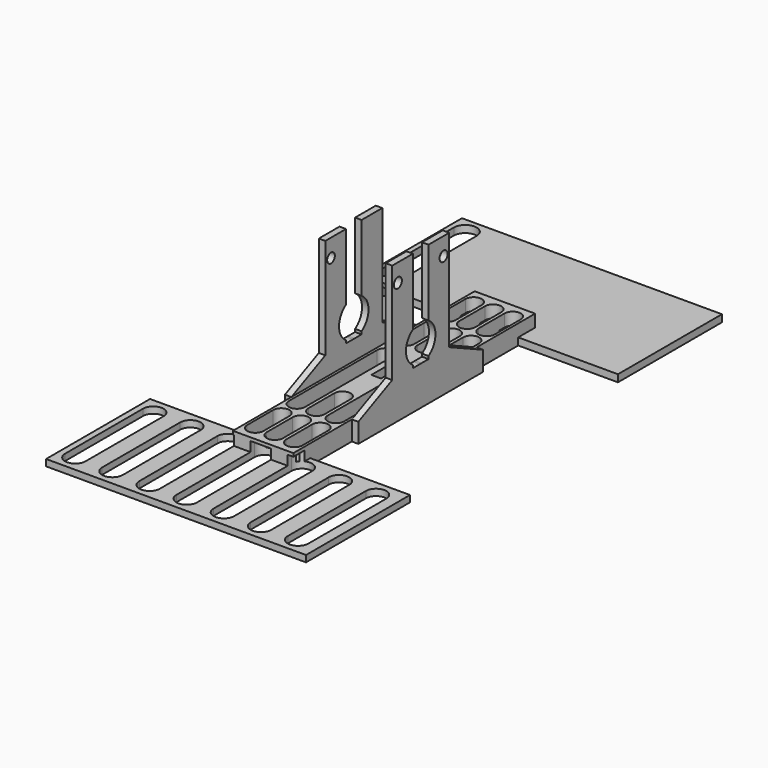
from build123d import *

# Parameters (mm, degrees)
SKETCH_W             = 18.6
SKETCH_H             = 93
PAD_DEPTH            = 6
SKETCH001_W          = 3
SKETCH001_H          = 6
POCKET_DEPTH         = 6
POCKET001_DEPTH      = 8
PAD001_DEPTH         = 2
SKETCH004_R          = 1.551846
SKETCH004_R_2        = 1.552141
POCKET002_DEPTH      = 20.601
SKETCH005_W          = 80
SKETCH005_H          = 40
PAD002_DEPTH         = 2
POCKET003_DEPTH      = 5
LINEARPATTERN_COUNT  = 8
LINEARPATTERN_PITCH  = 11.428571
SKETCH007_W          = 80
SKETCH007_H          = 40
PAD003_DEPTH         = 2.2
POCKET004_DEPTH      = 5
SKETCH009_R          = 5.6651
SKETCH009_R_2        = 1.478967
POCKET005_DEPTH      = 15
POCKET005_DEPTH_BACK = -15


with BuildPart() as part:
    # Sketch → Pad (new body)
    with BuildSketch(Plane.XY):
        Rectangle(SKETCH_W, SKETCH_H)
    extrude(amount=-PAD_DEPTH)

    # Sketch001 (on Face5 of Pad) → Pocket (cut)
    with BuildSketch(Plane.XY):
        Rectangle(SKETCH001_W, SKETCH001_H)
    extrude(amount=-POCKET_DEPTH, mode=Mode.SUBTRACT)

    # Sketch002 (on Face4 of Pocket) → Pocket001 (cut)
    with BuildSketch(Plane.XY):
        with BuildLine():
            ThreePointArc((-2.5, -42), (0, -44.5), (2.5, -42))
            Line((2.5, -42), (2.5, -32))
            ThreePointArc((2.5, -32), (0, -29.5), (-2.5, -32))
            Line((-2.5, -42), (-2.5, -32))
        make_face()
        with BuildLine():
            ThreePointArc((-8.5, -42), (-6, -44.5), (-3.5, -42))
            Line((-3.5, -42), (-3.5, -32))
            ThreePointArc((-3.5, -32), (-6, -29.5), (-8.5, -32))
            Line((-8.5, -42), (-8.5, -32))
        make_face()
        with BuildLine():
            ThreePointArc((3.5, -42), (6, -44.5), (8.5, -42))
            Line((8.5, -42), (8.5, -32))
            ThreePointArc((8.5, -32), (6, -29.5), (3.5, -32))
            Line((3.5, -42), (3.5, -32))
        make_face()
        with BuildLine():
            ThreePointArc((-2.487782, -26), (0.012218, -28.5), (2.512218, -26))
            Line((2.512218, -26), (2.512218, -16))
            ThreePointArc((2.512218, -16), (0.012218, -13.5), (-2.487782, -16))
            Line((-2.487782, -26), (-2.487782, -16))
        make_face()
        with BuildLine():
            ThreePointArc((-8.496945, -26), (-6, -28.496945), (-3.503055, -26))
            Line((-3.503055, -26), (-3.503055, 8))
            ThreePointArc((-3.503055, 8), (-6, 10.496945), (-8.496945, 8))
            Line((-8.496945, -26), (-8.496945, 8))
        make_face()
        with BuildLine():
            ThreePointArc((3.503055, -26), (6, -28.496945), (8.496945, -26))
            Line((8.496945, -26), (8.496945, 8))
            ThreePointArc((8.496945, 8), (6, 10.496945), (3.503055, 8))
            Line((3.503055, -26), (3.503055, 8))
        make_face()
        with BuildLine():
            ThreePointArc((2.5, 42), (0, 44.5), (-2.5, 42))
            Line((-2.5, 42), (-2.5, 32))
            ThreePointArc((-2.5, 32), (0, 29.5), (2.5, 32))
            Line((2.5, 42), (2.5, 32))
        make_face()
        with BuildLine():
            ThreePointArc((-3.5, 42), (-6, 44.5), (-8.5, 42))
            Line((-8.5, 42), (-8.5, 32))
            ThreePointArc((-8.5, 32), (-6, 29.5), (-3.5, 32))
            Line((-3.5, 42), (-3.5, 32))
        make_face()
        with BuildLine():
            ThreePointArc((8.5, 42), (6, 44.5), (3.5, 42))
            Line((3.5, 42), (3.5, 32))
            ThreePointArc((3.5, 32), (6, 29.5), (8.5, 32))
            Line((8.5, 42), (8.5, 32))
        make_face()
        with BuildLine():
            ThreePointArc((2.512218, 26), (0.012218, 28.5), (-2.487782, 26))
            Line((-2.487782, 26), (-2.487782, 16))
            ThreePointArc((-2.487782, 16), (0.012218, 13.5), (2.512218, 16))
            Line((2.512218, 26), (2.512218, 16))
        make_face()
        with BuildLine():
            ThreePointArc((-3.487782, 26), (-5.987782, 28.5), (-8.487782, 26))
            Line((-8.487782, 26), (-8.487782, 16))
            ThreePointArc((-8.487782, 16), (-5.987782, 13.5), (-3.487782, 16))
            Line((-3.487782, 26), (-3.487782, 16))
        make_face()
        with BuildLine():
            ThreePointArc((8.496945, 26), (6, 28.496945), (3.503055, 26))
            Line((3.503055, 26), (3.503055, 16))
            ThreePointArc((3.503055, 16), (6, 13.503055), (8.496945, 16))
            Line((8.496945, 26), (8.496945, 16))
        make_face()
    extrude(amount=-POCKET001_DEPTH, mode=Mode.SUBTRACT)

    # Sketch003 (on Face3 of Pocket001) → Pad001 (join)
    with BuildSketch(Plane.YZ.offset(9.3)):
        Polygon((-24, -6), (-24, 0), (-10.960923, 6), (-10.960923, 37), (-3, 37), (-3, 6), (3, 6), (3, 37), (10.971753, 37), (10.971753, 6), (24, 0), (24, -6), align=None)
    pad001 = extrude(amount=PAD001_DEPTH)

    # Sketch004 → Pocket002 (cut, through all)
    with BuildSketch(Plane.YZ.offset(11.3)):
        with Locations((-8.8, 31.464135)):
            Circle(SKETCH004_R)
        with Locations((8.8, 31.541361)):
            Circle(SKETCH004_R_2)
    extrude(amount=-POCKET002_DEPTH, mode=Mode.SUBTRACT)

    # Sketch005 (on Face5 of Pocket002) → Pad002 (join)
    with BuildSketch(Plane(origin=(0, 0, -6), x_dir=(1, 0, 0), z_dir=(0, 0, -1))):
        with Locations((0, 60)):
            Rectangle(SKETCH005_W, SKETCH005_H)
    extrude(amount=-PAD002_DEPTH)

    # Sketch006 (on Face66 of Pad002) → Pocket003 (cut)
    with BuildSketch(Plane(origin=(0, 0, -6), x_dir=(1, 0, 0), z_dir=(0, 0, -1))):
        with BuildLine():
            ThreePointArc((-31.836483, 75), (-35, 78.163517), (-38.163517, 75))
            Line((-38.163517, 75), (-38.163517, 45))
            ThreePointArc((-38.163517, 45), (-35, 41.836483), (-31.836483, 45))
            Line((-31.836483, 75), (-31.836483, 45))
        make_face()
    pocket003 = extrude(amount=-POCKET003_DEPTH, mode=Mode.SUBTRACT)

    # LinearPattern: Pocket003 ×8
    with Locations(*[(i * LINEARPATTERN_PITCH, 0, 0) for i in range(1, LINEARPATTERN_COUNT)]):
        add(pocket003, mode=Mode.SUBTRACT)

    # Sketch007 (on Face5 of LinearPattern) → Pad003 (join)
    with BuildSketch(Plane(origin=(0, 0, -6), x_dir=(1, 0, 0), z_dir=(0, 0, -1))):
        with Locations((0, -60)):
            Rectangle(SKETCH007_W, SKETCH007_H)
    extrude(amount=-PAD003_DEPTH)

    # Sketch008 (on Face111 of Pad003) → Pocket004 (cut)
    with BuildSketch(Plane(origin=(0, 0, -6), x_dir=(1, 0, 0), z_dir=(0, 0, -1))):
        with BuildLine():
            ThreePointArc((-31.490648, -45), (-35, -41.490648), (-38.509352, -45))
            Line((-38.509352, -45), (-38.509352, -75))
            ThreePointArc((-38.509352, -75), (-35, -78.509352), (-31.490648, -75))
            Line((-31.490648, -45), (-31.490648, -75))
        make_face()
    extrude(amount=-POCKET004_DEPTH, mode=Mode.SUBTRACT)

    # Mirrored: Pad001 across YZ
    add(pad001.mirror(Plane.YZ))

    # Sketch009 → Pocket005 (cut, two sides)
    with BuildSketch(Plane.YZ) as pocket005_sk:
        with Locations((0, 11.65735)):
            Circle(SKETCH009_R)
        with Locations((-8.758097, 31.478674)):
            Circle(SKETCH009_R_2)
    extrude(amount=-POCKET005_DEPTH, mode=Mode.SUBTRACT)
    extrude(pocket005_sk.sketch, amount=-POCKET005_DEPTH_BACK, mode=Mode.SUBTRACT)


solid = part.part
